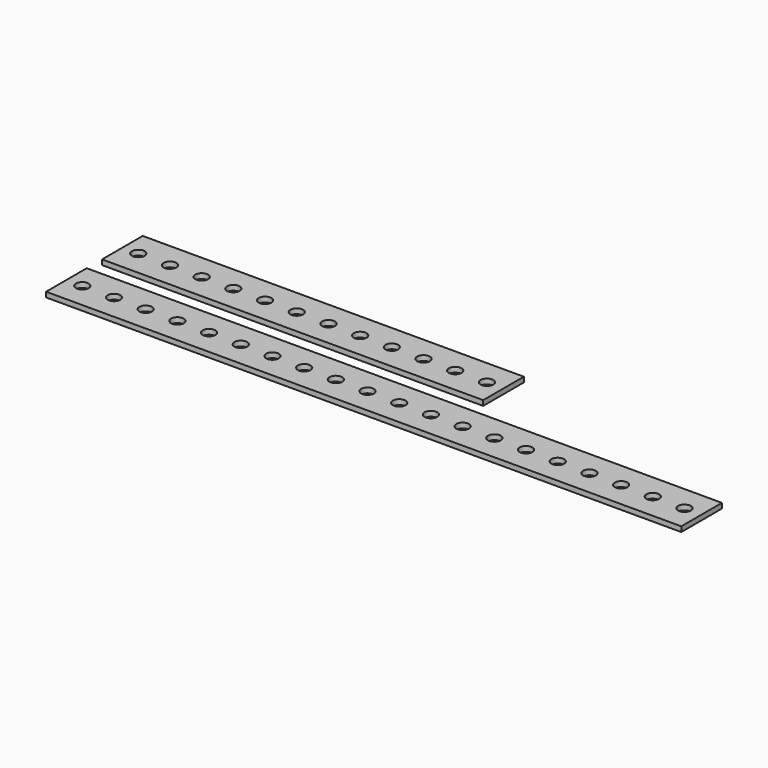
from build123d import *

# Parameters (mm, degrees)
F1_DEPTH = 0.8


with BuildPart() as f1:
    # F0 (on Top) → F1 (new body)
    with BuildSketch(Plane.XY):
        with BuildLine():
            Line((60, 11.016933), (0, 11.016933))
            Line((0, 11.016933), (0, 7.016933))
            Line((0, 7.016933), (1.5, 7.016933))
            ThreePointArc((1.5, 7.016933), (2.5, 8.016933), (3.5, 7.016933))
            Line((3.5, 7.016933), (6.49, 7.016933))
            ThreePointArc((6.49, 7.016933), (7.49, 8.016933), (8.49, 7.016933))
            Line((8.49, 7.016933), (11.48, 7.016933))
            ThreePointArc((11.48, 7.016933), (12.48, 8.016933), (13.48, 7.016933))
            Line((13.48, 7.016933), (16.47, 7.016933))
            ThreePointArc((16.47, 7.016933), (17.47, 8.016933), (18.47, 7.016933))
            Line((18.47, 7.016933), (21.46, 7.016933))
            ThreePointArc((21.46, 7.016933), (22.46, 8.016933), (23.46, 7.016933))
            Line((23.46, 7.016933), (26.45, 7.016933))
            ThreePointArc((26.45, 7.016933), (27.45, 8.016933), (28.45, 7.016933))
            Line((28.45, 7.016933), (31.44, 7.016933))
            ThreePointArc((31.44, 7.016933), (32.44, 8.016933), (33.44, 7.016933))
            Line((33.44, 7.016933), (36.43, 7.016933))
            ThreePointArc((36.43, 7.016933), (37.43, 8.016933), (38.43, 7.016933))
            Line((38.43, 7.016933), (41.42, 7.016933))
            ThreePointArc((41.42, 7.016933), (42.42, 8.016933), (43.42, 7.016933))
            Line((43.42, 7.016933), (46.41, 7.016933))
            ThreePointArc((46.41, 7.016933), (47.41, 8.016933), (48.41, 7.016933))
            Line((48.41, 7.016933), (51.4, 7.016933))
            ThreePointArc((51.4, 7.016933), (52.4, 8.016933), (53.4, 7.016933))
            Line((53.4, 7.016933), (56.39, 7.016933))
            ThreePointArc((56.39, 7.016933), (57.39, 8.016933), (58.39, 7.016933))
            Line((58.39, 7.016933), (60, 7.016933))
            Line((60, 7.016933), (60, 11.016933))
        make_face()
        with BuildLine():
            Line((1.5, 7.016933), (0, 7.016933))
            Line((0, 7.016933), (0, 3.016933))
            Line((0, 3.016933), (60, 3.016933))
            Line((60, 3.016933), (60, 7.016933))
            Line((60, 7.016933), (58.39, 7.016933))
            ThreePointArc((58.39, 7.016933), (57.39, 6.016933), (56.39, 7.016933))
            Line((56.39, 7.016933), (53.4, 7.016933))
            ThreePointArc((53.4, 7.016933), (52.4, 6.016933), (51.4, 7.016933))
            Line((51.4, 7.016933), (48.41, 7.016933))
            ThreePointArc((48.41, 7.016933), (47.41, 6.016933), (46.41, 7.016933))
            Line((46.41, 7.016933), (43.42, 7.016933))
            ThreePointArc((43.42, 7.016933), (42.42, 6.016933), (41.42, 7.016933))
            Line((41.42, 7.016933), (38.43, 7.016933))
            ThreePointArc((38.43, 7.016933), (37.43, 6.016933), (36.43, 7.016933))
            Line((36.43, 7.016933), (33.44, 7.016933))
            ThreePointArc((33.44, 7.016933), (32.44, 6.016933), (31.44, 7.016933))
            Line((31.44, 7.016933), (28.45, 7.016933))
            ThreePointArc((28.45, 7.016933), (27.45, 6.016933), (26.45, 7.016933))
            Line((26.45, 7.016933), (23.46, 7.016933))
            ThreePointArc((23.46, 7.016933), (22.46, 6.016933), (21.46, 7.016933))
            Line((21.46, 7.016933), (18.47, 7.016933))
            ThreePointArc((18.47, 7.016933), (17.47, 6.016933), (16.47, 7.016933))
            Line((16.47, 7.016933), (13.48, 7.016933))
            ThreePointArc((13.48, 7.016933), (12.48, 6.016933), (11.48, 7.016933))
            Line((11.48, 7.016933), (8.49, 7.016933))
            ThreePointArc((8.49, 7.016933), (7.49, 6.016933), (6.49, 7.016933))
            Line((6.49, 7.016933), (3.5, 7.016933))
            ThreePointArc((3.5, 7.016933), (2.5, 6.016933), (1.5, 7.016933))
        make_face()
        with BuildLine():
            Line((60, 0), (0, 0))
            Line((0, 0), (0, -4))
            Line((0, -4), (1.5, -4))
            ThreePointArc((1.5, -4), (2.5, -3), (3.5, -4))
            Line((3.5, -4), (6.49, -4))
            ThreePointArc((6.49, -4), (7.49, -3), (8.49, -4))
            Line((8.49, -4), (11.48, -4))
            ThreePointArc((11.48, -4), (12.48, -3), (13.48, -4))
            Line((13.48, -4), (16.47, -4))
            ThreePointArc((16.47, -4), (17.47, -3), (18.47, -4))
            Line((18.47, -4), (21.46, -4))
            ThreePointArc((21.46, -4), (22.46, -3), (23.46, -4))
            Line((23.46, -4), (26.45, -4))
            ThreePointArc((26.45, -4), (27.45, -3), (28.45, -4))
            Line((28.45, -4), (31.44, -4))
            ThreePointArc((31.44, -4), (32.44, -3), (33.44, -4))
            Line((33.44, -4), (36.43, -4))
            ThreePointArc((36.43, -4), (37.43, -3), (38.43, -4))
            Line((38.43, -4), (41.42, -4))
            ThreePointArc((41.42, -4), (42.42, -3), (43.42, -4))
            Line((43.42, -4), (46.41, -4))
            ThreePointArc((46.41, -4), (47.41, -3), (48.41, -4))
            Line((48.41, -4), (51.4, -4))
            ThreePointArc((51.4, -4), (52.4, -3), (53.4, -4))
            Line((53.4, -4), (56.39, -4))
            ThreePointArc((56.39, -4), (57.39, -3), (58.39, -4))
            Line((58.39, -4), (61.38, -4))
            ThreePointArc((61.38, -4), (62.38, -3), (63.38, -4))
            Line((63.38, -4), (66.37, -4))
            ThreePointArc((66.37, -4), (67.37, -3), (68.37, -4))
            Line((68.37, -4), (71.36, -4))
            ThreePointArc((71.36, -4), (72.36, -3), (73.36, -4))
            Line((73.36, -4), (76.35, -4))
            ThreePointArc((76.35, -4), (77.35, -3), (78.35, -4))
            Line((78.35, -4), (81.34, -4))
            ThreePointArc((81.34, -4), (82.34, -3), (83.34, -4))
            Line((83.34, -4), (86.33, -4))
            ThreePointArc((86.33, -4), (87.33, -3), (88.33, -4))
            Line((88.33, -4), (91.32, -4))
            ThreePointArc((91.32, -4), (92.32, -3), (93.32, -4))
            Line((93.32, -4), (96.31, -4))
            ThreePointArc((96.31, -4), (97.31, -3), (98.31, -4))
            Line((98.31, -4), (100, -4))
            Line((100, -4), (100, 0))
            Line((100, 0), (60, 0))
        make_face()
        with BuildLine():
            Line((1.5, -4), (0, -4))
            Line((0, -4), (0, -8))
            Line((0, -8), (100, -8))
            Line((100, -8), (100, -4))
            Line((100, -4), (98.31, -4))
            ThreePointArc((98.31, -4), (97.31, -5), (96.31, -4))
            Line((96.31, -4), (93.32, -4))
            ThreePointArc((93.32, -4), (92.32, -5), (91.32, -4))
            Line((91.32, -4), (88.33, -4))
            ThreePointArc((88.33, -4), (87.33, -5), (86.33, -4))
            Line((86.33, -4), (83.34, -4))
            ThreePointArc((83.34, -4), (82.34, -5), (81.34, -4))
            Line((81.34, -4), (78.35, -4))
            ThreePointArc((78.35, -4), (77.35, -5), (76.35, -4))
            Line((76.35, -4), (73.36, -4))
            ThreePointArc((73.36, -4), (72.36, -5), (71.36, -4))
            Line((71.36, -4), (68.37, -4))
            ThreePointArc((68.37, -4), (67.37, -5), (66.37, -4))
            Line((66.37, -4), (63.38, -4))
            ThreePointArc((63.38, -4), (62.38, -5), (61.38, -4))
            Line((61.38, -4), (58.39, -4))
            ThreePointArc((58.39, -4), (57.39, -5), (56.39, -4))
            Line((56.39, -4), (53.4, -4))
            ThreePointArc((53.4, -4), (52.4, -5), (51.4, -4))
            Line((51.4, -4), (48.41, -4))
            ThreePointArc((48.41, -4), (47.41, -5), (46.41, -4))
            Line((46.41, -4), (43.42, -4))
            ThreePointArc((43.42, -4), (42.42, -5), (41.42, -4))
            Line((41.42, -4), (38.43, -4))
            ThreePointArc((38.43, -4), (37.43, -5), (36.43, -4))
            Line((36.43, -4), (33.44, -4))
            ThreePointArc((33.44, -4), (32.44, -5), (31.44, -4))
            Line((31.44, -4), (28.45, -4))
            ThreePointArc((28.45, -4), (27.45, -5), (26.45, -4))
            Line((26.45, -4), (23.46, -4))
            ThreePointArc((23.46, -4), (22.46, -5), (21.46, -4))
            Line((21.46, -4), (18.47, -4))
            ThreePointArc((18.47, -4), (17.47, -5), (16.47, -4))
            Line((16.47, -4), (13.48, -4))
            ThreePointArc((13.48, -4), (12.48, -5), (11.48, -4))
            Line((11.48, -4), (8.49, -4))
            ThreePointArc((8.49, -4), (7.49, -5), (6.49, -4))
            Line((6.49, -4), (3.5, -4))
            ThreePointArc((3.5, -4), (2.5, -5), (1.5, -4))
        make_face()
    extrude(amount=F1_DEPTH)


solid = f1.part
